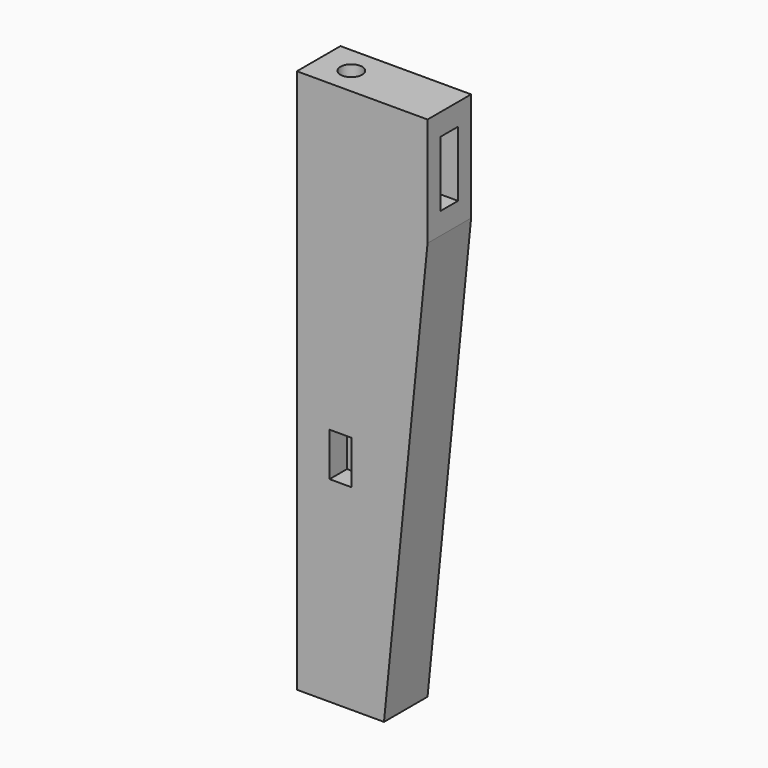
from build123d import *

# Parameters (mm, degrees)
F1_DEPTH = 12.5
F2_W     = 10
F2_H     = 30
F3_DEPTH = 25
F4_W     = 10
F4_H     = 20
F5_DEPTH = 10
F6_R     = 5
F7_DEPTH = 25


with BuildPart() as f1:
    # F0 (on Front) → F1 (new body, symmetric)
    with BuildSketch(Plane.XZ):
        Polygon((-40, 0), (0, 0), (20, 200), (20, 250), (-40, 250), align=None)
    extrude(amount=F1_DEPTH, both=True)

    # F2 (on face) → F3 (cut)
    with BuildSketch(Plane.YZ.offset(20)):
        with Locations((0, 225)):
            Rectangle(F2_W, F2_H)
    extrude(amount=-F3_DEPTH, mode=Mode.SUBTRACT)

    # F4 (on face) → F5 (cut)
    with BuildSketch(Plane.XZ.offset(12.5)):
        with Locations((-20, 100)):
            Rectangle(F4_W, F4_H)
    extrude(amount=-F5_DEPTH, mode=Mode.SUBTRACT)

    # F6 (on face) → F7 (cut)
    with BuildSketch(Plane.XY.offset(250)):
        with Locations((-25, 0)):
            Circle(F6_R)
    extrude(amount=-F7_DEPTH, mode=Mode.SUBTRACT)


solid = f1.part
